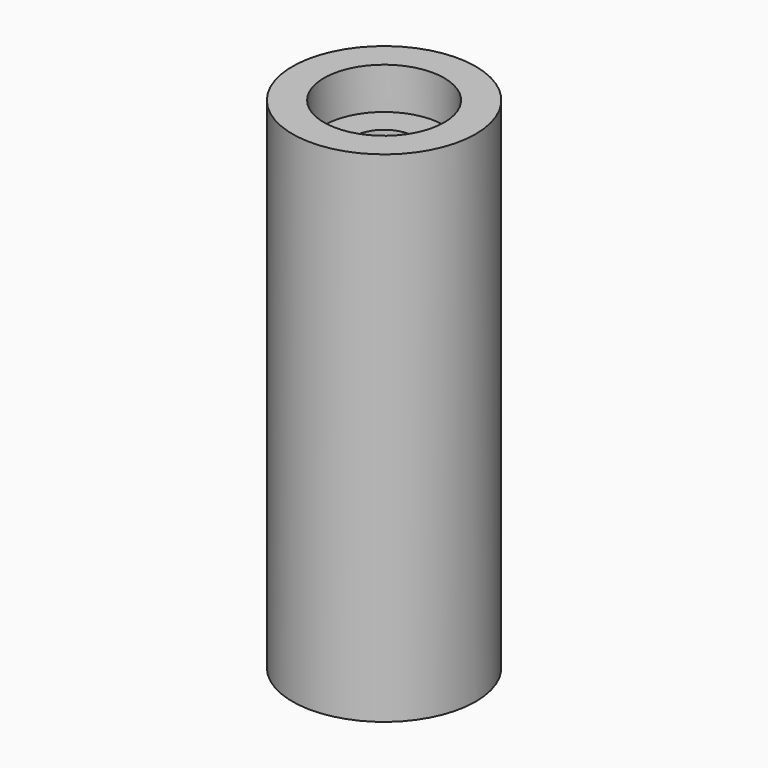
from build123d import *

# Parameters (mm, degrees)
F2_R     = 9.9
F3_DEPTH = 27
F4_R     = 6.5
F5_DEPTH = 4.5
F6_R     = 3.25
F7_DEPTH = 22.501


with BuildPart() as f3:
    # F2 (on Top) → F3 (new body)
    with BuildSketch(Plane.XY):
        Circle(F2_R)
    extrude(amount=F3_DEPTH)

    # F4 (on face) → F5 (cut)
    with BuildSketch(Plane.XY.offset(27)):
        Circle(F4_R)
    extrude(amount=-F5_DEPTH, mode=Mode.SUBTRACT)

    # F6 (on face) → F7 (cut, through all)
    with BuildSketch(Plane.XY.offset(22.5)):
        Circle(F6_R)
    extrude(amount=-F7_DEPTH, mode=Mode.SUBTRACT)

    # F8: F3 across plane


with BuildPart() as f3_1:
    add(f3.part)
    add(f3.part.mirror(Plane.XY))


solid = f3_1.part
